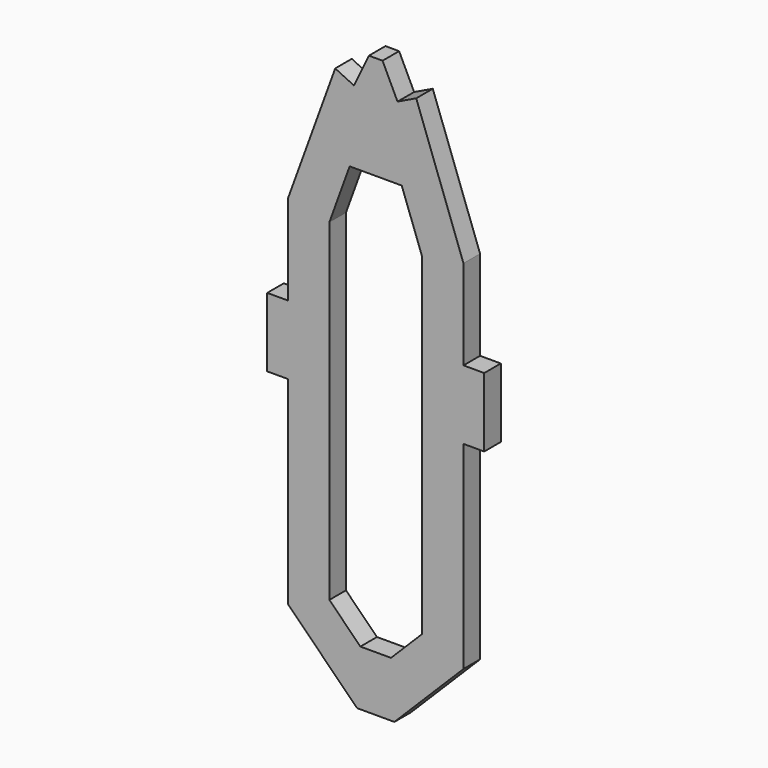
from build123d import *

# Parameters (mm, degrees)
F1_DEPTH = 1.5


with BuildPart() as f1:
    # F0 (on Front) → F1 (new body, symmetric)
    with BuildSketch(Plane.XZ):
        Polygon((12.7, 18), (5.8595971335, 36.7938524157), (3.1559015792, 35.4938407428), (0.9892154577, 40), (0, 40), (-0.9892154577, 40), (-3.1559015792, 35.4938407428), (-5.8595971335, 36.7938524157), (-12.7, 18), (-12.7, 5), (-15.7, 5), (-15.7, -5), (-12.7, -5), (-12.7, -33.66908), (-2.7, -43.66908), (0, -43.66908), (2.7, -43.66908), (12.7, -33.66908), (12.7, -5), (15.7, -5), (15.7, 5), (12.7, 5), align=None)
        Polygon((6.7, -31.1837986258), (2.2147186258, -35.66908), (-2.2147186258, -35.66908), (-6.7, -31.1837986258), (-6.7, -5), (-6.7, 5), (-6.7, 16.9420381157), (-3.7671417253, 25), (3.7671417253, 25), (6.7, 16.9420381157), (6.7, 5.483887788), (6.7, -4.516112212), align=None, mode=Mode.SUBTRACT)
    extrude(amount=F1_DEPTH, both=True)


solid = f1.part
